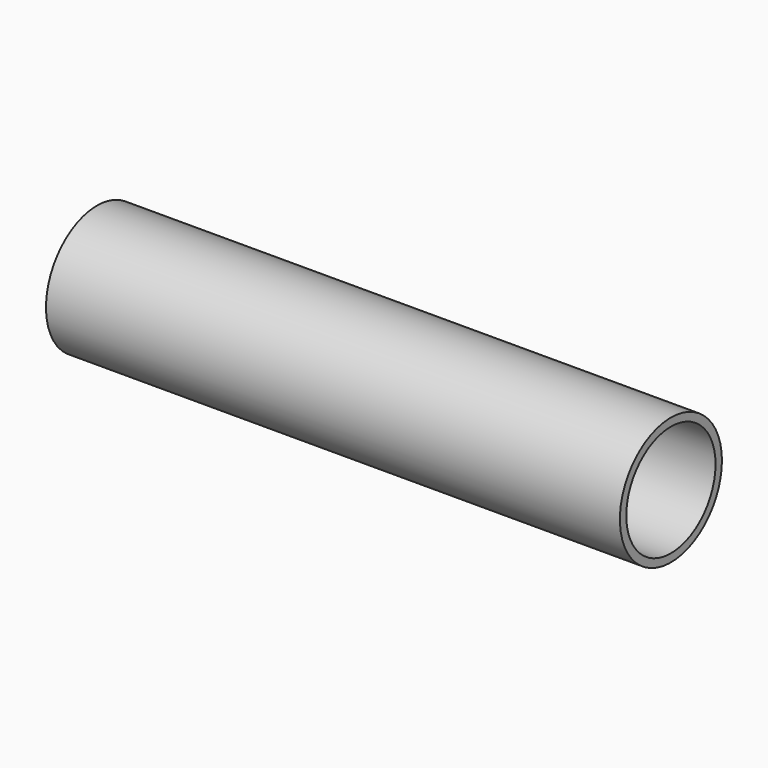
from build123d import *

# Parameters (mm, degrees)
F0_R      = 25.4
F1_DEPTH  = 254
F2_T      = -3.175
F1_FACE_R = 25.4
F3_DEPTH  = 25.4


with BuildPart() as f1:
    # F0 (on Right) → F1 (new body)
    with BuildSketch(Plane.YZ):
        Circle(F0_R)
    extrude(amount=F1_DEPTH)

    # F2
    f2_openings = [f1.faces().sort_by_distance(p)[0] for p in [
        (254, 0, 0),
    ]]
    offset(amount=F2_T, openings=f2_openings)

    # F1_face (on face) → F3 (cut)
    with BuildSketch(Plane(origin=(0, 0, 0), x_dir=(0, 1, 0), z_dir=(-1, 0, 0))):
        Circle(F1_FACE_R)
    extrude(amount=-F3_DEPTH, mode=Mode.SUBTRACT)


solid = f1.part
